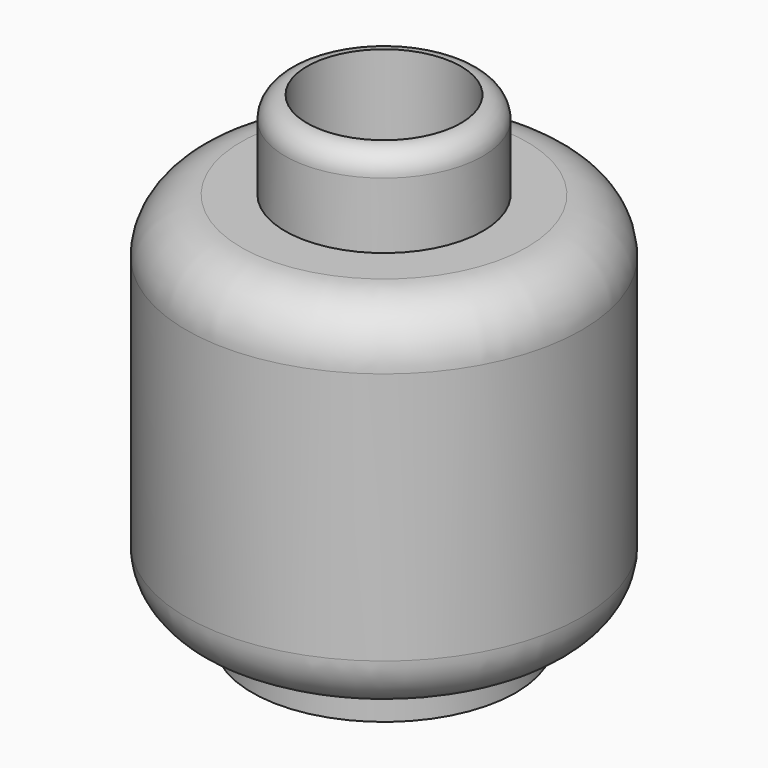
from build123d import *

# Parameters (mm, degrees)
F2_R     = 70
F3_DEPTH = 500


with BuildPart() as f1:
    # F0 (on Front) → F1 (revolve)
    with BuildSketch(Plane.XZ):
        with BuildLine():
            Line((70, 440), (0, 440))
            Line((0, 440), (0, 0))
            Line((0, 0), (120, 0))
            Line((120, 0), (120, 30))
            Line((120, 30), (130, 30))
            ThreePointArc((130, 30), (165.355339, 44.644661), (180, 80))
            Line((180, 80), (180, 310))
            ThreePointArc((180, 310), (165.355339, 345.355339), (130, 360))
            Line((130, 360), (90, 360))
            Line((90, 360), (90, 420))
            ThreePointArc((90, 420), (84.142136, 434.142136), (70, 440))
        make_face()
    revolve(axis=Axis((0, 0, 220), (0, 0, -1)))

    # F2 (on face) → F3 (cut)
    with BuildSketch(Plane.XY.offset(440)):
        Circle(F2_R)
    extrude(amount=-F3_DEPTH, mode=Mode.SUBTRACT)


solid = f1.part
